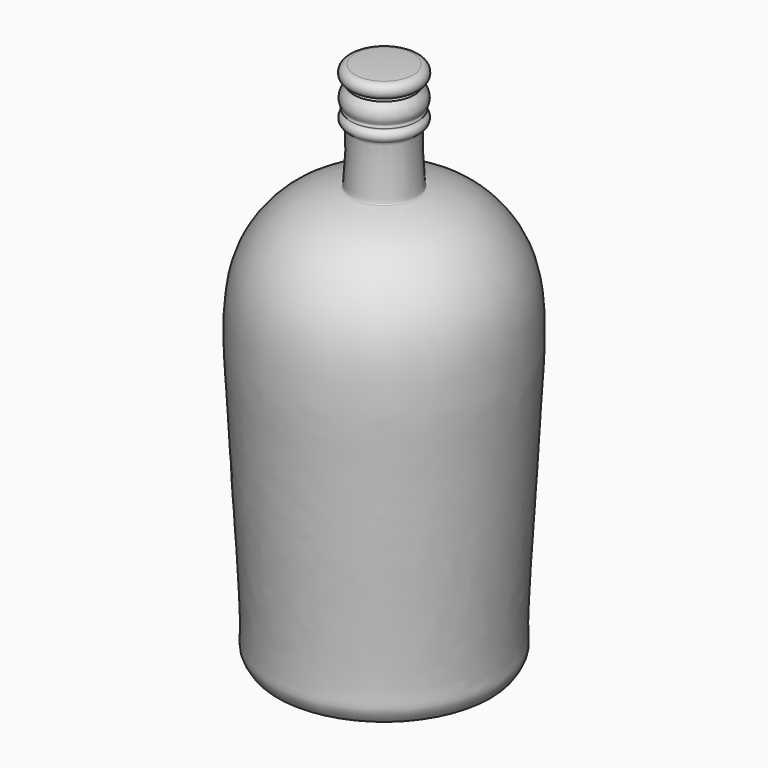
from build123d import *


with BuildPart() as f2:
    # F0 (on Front) → F2 (revolve)
    with BuildSketch(Plane.XZ):
        with BuildLine():
            add(Edge.make_bspline(
                [(16.3454152644, 89.5591899753), (16.7451438944, 89.1086869255), (17.5874193916, 88.159423721), (18.1218962686, 85.9486144823), (17.4832867316, 84.5941042929), (17.1940502372, 84.1327314608), (17.5611795349, 83.6457305138), (17.148111557, 83.3038217306), (16.8864118539, 82.933705531), (17.6639767708, 82.4181709001), (17.9735298119, 81.64725961), (17.9733758317, 80.6655762572), (17.015742274, 79.6530880763), (15.9631442855, 79.5571424803), (16.700300536, 64.1337126332), (17.5149593185, 64.8505151761), (23.2025226737, 63.2895570174), (31.6446907135, 59.9835276188), (44.444285477, 45.3198085912), (42.1844884267, 13.7210198041), (41.1457316264, -10.325271774), (38.8763032028, -44.0035606648), (39.7705361463, -48.4128126154), (38.2098106899, -51.0034103027), (37.0738940435, -52.4998811027), (27.7086025068, -52.8453632892), (14.716650723, -52.890584409), (7.9522242304, -52.9298707843)],
                knots=[0, 0, 0, 0, 0.0252343386, 0.0526562647, 0.0747276195, 0.0874355898, 0.1000532546, 0.1126492224, 0.1234256855, 0.1398508459, 0.1567772545, 0.1747127033, 0.1949863352, 0.2124989874, 0.282627374, 0.292910359, 0.3346434831, 0.3913345275, 0.4689455061, 0.570228936, 0.6677669319, 0.7724145712, 0.8097737046, 0.8392188077, 0.8621534304, 0.915587112, 1, 1, 1, 1], degree=3))
            ThreePointArc((16.3454152644, 89.5591899753), (15.0103699416, 89.8619058806), (13.6753246188, 89.5591899753))
            add(Edge.make_bspline(
                [(13.6753246188, 89.5591899753), (13.6703845799, 89.3527424963), (13.6577099563, 88.8230616335), (13.7854321109, 86.9491769069), (15.0396516969, 86.2107456908), (14.3445071255, 84.8072427168), (15.5501018033, 84.1000485457), (14.4027005435, 83.0328680271), (16.3812180362, 82.5344382569), (15.8657613493, 81.1246279545), (15.5754433945, 80.3305879235)],
                knots=[0, 0, 0, 0, 0.0960434771, 0.2464180821, 0.3707817125, 0.4941423849, 0.6059236593, 0.7127928226, 0.8382378142, 1, 1, 1, 1], degree=3))
            add(Edge.make_bspline(
                [(15.5754433945, 80.3305879235), (15.3920291277, 77.9793052215), (15.082924079, 74.0167271376), (15.11798555, 71.3767087566), (15.4600226929, 65.1685147672), (15.8747347273, 63.3861507379), (17.8842860177, 63.5653504851), (29.5447622535, 59.3092552667), (36.1692359527, 53.0568703778), (40.6650083376, 42.1054966974), (42.1009322538, 28.9464172327), (37.8416198147, -27.8494935628), (37.299481839, -40.7273024573), (38.4137981102, -47.6858027015), (36.3374105628, -51.1316123186), (28.3817427048, -51.2834164997), (15.8906353076, -51.492054219), (7.9522242304, -51.478870213)],
                knots=[0, 0, 0, 0, 0.0551041676, 0.0928423144, 0.1474326718, 0.1740823473, 0.2010780163, 0.2770163446, 0.3456161183, 0.4163789785, 0.4998375598, 0.665722467, 0.7476951541, 0.8015123786, 0.8402362348, 0.8981295869, 1, 1, 1, 1], degree=3))
            Line((7.9522242304, -51.478870213), (7.9522242304, -52.9298707843))
        make_face()
    revolve(axis=Axis((7.9522242304, 0, -44.8076110333), (0, 0, 1)))


with BuildPart() as f4:
    # F3 (on Front) → F4 (revolve)
    with BuildSketch(Plane.XZ):
        with BuildLine():
            ThreePointArc((15.9856900573, 90.3754010797), (18.0168133229, 92.3614595085), (16.030754894, 94.3925827742))
            ThreePointArc((16.030754894, 94.3925827742), (11.9943563797, 94.6081621153), (7.9522242304, 94.595707953))
            Line((7.9522242304, 94.595707953), (7.9522242304, 75.2169340849))
            ThreePointArc((7.9522242304, 75.2169340849), (11.5689070044, 74.9504669043), (15.0820109993, 75.8501887321))
            ThreePointArc((15.0820109993, 75.8501887321), (15.0288318251, 77.7785208702), (14.5815126598, 79.6550065279))
            ThreePointArc((14.5815126598, 79.6550065279), (13.7460947283, 82.8784016969), (13.177935034, 86.1594676971))
            ThreePointArc((13.177935034, 86.1594676971), (13.0920810259, 87.8846893019), (13.51611875, 89.5591899753))
            ThreePointArc((13.51611875, 89.5591899753), (14.7155538574, 90.0742540021), (15.9856900573, 90.3754010797))
        make_face()
    revolve(axis=Axis((7.9522242304, 0, 92.3626832664), (0, 0, 1)))


solid = Compound([f2.part, f4.part])
